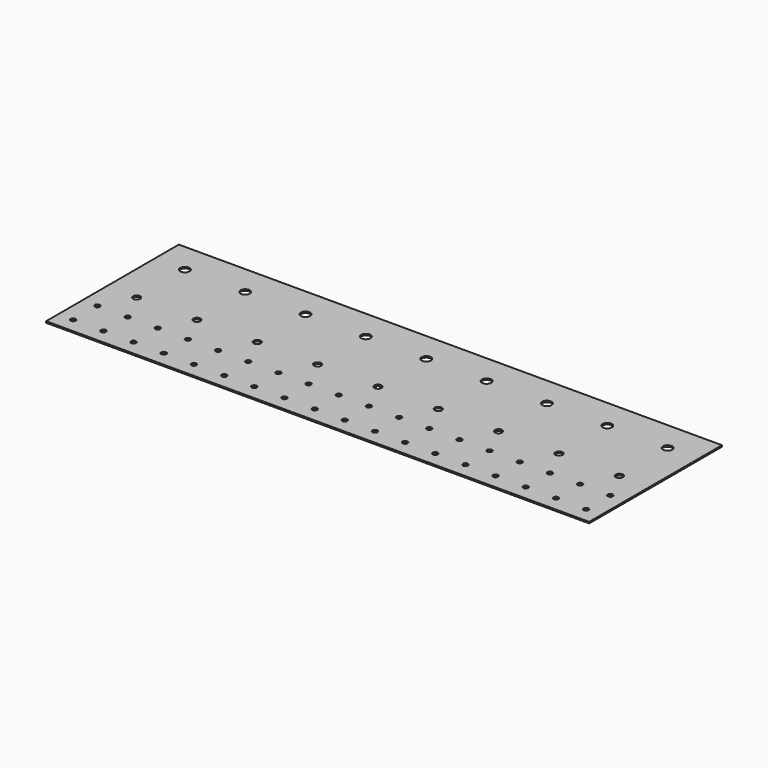
from build123d import *

# Parameters (mm, degrees)
F0_W     = 378
F0_H     = 115.5
F0_R     = 1.75
F0_R_2   = 2.5
F0_R_3   = 3.25
F1_DEPTH = 1


with BuildPart() as f1:
    # F0 (on Top) → F1 (new body)
    with BuildSketch(Plane.XY):
        with Locations((189, 57.75)):
            Rectangle(F0_W, F0_H)
        with Locations((10.5, 10.5)):
            Circle(F0_R, mode=Mode.SUBTRACT)
        with Locations((31.5, 10.5)):
            Circle(F0_R, mode=Mode.SUBTRACT)
        with Locations((52.5, 10.5)):
            Circle(F0_R, mode=Mode.SUBTRACT)
        with Locations((73.5, 10.5)):
            Circle(F0_R, mode=Mode.SUBTRACT)
        with Locations((94.5, 10.5)):
            Circle(F0_R, mode=Mode.SUBTRACT)
        with Locations((115.5, 10.5)):
            Circle(F0_R, mode=Mode.SUBTRACT)
        with Locations((136.5, 10.5)):
            Circle(F0_R, mode=Mode.SUBTRACT)
        with Locations((157.5, 10.5)):
            Circle(F0_R, mode=Mode.SUBTRACT)
        with Locations((178.5, 10.5)):
            Circle(F0_R, mode=Mode.SUBTRACT)
        with Locations((10.5, 31.5)):
            Circle(F0_R, mode=Mode.SUBTRACT)
        with Locations((31.5, 31.5)):
            Circle(F0_R, mode=Mode.SUBTRACT)
        with Locations((52.5, 31.5)):
            Circle(F0_R, mode=Mode.SUBTRACT)
        with Locations((73.5, 31.5)):
            Circle(F0_R, mode=Mode.SUBTRACT)
        with Locations((21, 52.5)):
            Circle(F0_R_2, mode=Mode.SUBTRACT)
        with Locations((63, 52.5)):
            Circle(F0_R_2, mode=Mode.SUBTRACT)
        with Locations((94.5, 31.5)):
            Circle(F0_R, mode=Mode.SUBTRACT)
        with Locations((115.5, 31.5)):
            Circle(F0_R, mode=Mode.SUBTRACT)
        with Locations((136.5, 31.5)):
            Circle(F0_R, mode=Mode.SUBTRACT)
        with Locations((157.5, 31.5)):
            Circle(F0_R, mode=Mode.SUBTRACT)
        with Locations((178.5, 31.5)):
            Circle(F0_R, mode=Mode.SUBTRACT)
        with Locations((105, 52.5)):
            Circle(F0_R_2, mode=Mode.SUBTRACT)
        with Locations((147, 52.5)):
            Circle(F0_R_2, mode=Mode.SUBTRACT)
        with Locations((199.5, 10.5)):
            Circle(F0_R, mode=Mode.SUBTRACT)
        with Locations((220.5, 10.5)):
            Circle(F0_R, mode=Mode.SUBTRACT)
        with Locations((241.5, 10.5)):
            Circle(F0_R, mode=Mode.SUBTRACT)
        with Locations((262.5, 10.5)):
            Circle(F0_R, mode=Mode.SUBTRACT)
        with Locations((283.5, 10.5)):
            Circle(F0_R, mode=Mode.SUBTRACT)
        with Locations((304.5, 10.5)):
            Circle(F0_R, mode=Mode.SUBTRACT)
        with Locations((325.5, 10.5)):
            Circle(F0_R, mode=Mode.SUBTRACT)
        with Locations((346.5, 10.5)):
            Circle(F0_R, mode=Mode.SUBTRACT)
        with Locations((367.5, 10.5)):
            Circle(F0_R, mode=Mode.SUBTRACT)
        with Locations((199.5, 31.5)):
            Circle(F0_R, mode=Mode.SUBTRACT)
        with Locations((220.5, 31.5)):
            Circle(F0_R, mode=Mode.SUBTRACT)
        with Locations((241.5, 31.5)):
            Circle(F0_R, mode=Mode.SUBTRACT)
        with Locations((262.5, 31.5)):
            Circle(F0_R, mode=Mode.SUBTRACT)
        with Locations((189, 52.5)):
            Circle(F0_R_2, mode=Mode.SUBTRACT)
        with Locations((231, 52.5)):
            Circle(F0_R_2, mode=Mode.SUBTRACT)
        with Locations((273, 52.5)):
            Circle(F0_R_2, mode=Mode.SUBTRACT)
        with Locations((283.5, 31.5)):
            Circle(F0_R, mode=Mode.SUBTRACT)
        with Locations((304.5, 31.5)):
            Circle(F0_R, mode=Mode.SUBTRACT)
        with Locations((325.5, 31.5)):
            Circle(F0_R, mode=Mode.SUBTRACT)
        with Locations((346.5, 31.5)):
            Circle(F0_R, mode=Mode.SUBTRACT)
        with Locations((367.5, 31.5)):
            Circle(F0_R, mode=Mode.SUBTRACT)
        with Locations((315, 52.5)):
            Circle(F0_R_2, mode=Mode.SUBTRACT)
        with Locations((357, 52.5)):
            Circle(F0_R_2, mode=Mode.SUBTRACT)
        with Locations((21, 94.5)):
            Circle(F0_R_3, mode=Mode.SUBTRACT)
        with Locations((63, 94.5)):
            Circle(F0_R_3, mode=Mode.SUBTRACT)
        with Locations((105, 94.5)):
            Circle(F0_R_3, mode=Mode.SUBTRACT)
        with Locations((147, 94.5)):
            Circle(F0_R_3, mode=Mode.SUBTRACT)
        with Locations((189, 94.5)):
            Circle(F0_R_3, mode=Mode.SUBTRACT)
        with Locations((231, 94.5)):
            Circle(F0_R_3, mode=Mode.SUBTRACT)
        with Locations((273, 94.5)):
            Circle(F0_R_3, mode=Mode.SUBTRACT)
        with Locations((315, 94.5)):
            Circle(F0_R_3, mode=Mode.SUBTRACT)
        with Locations((357, 94.5)):
            Circle(F0_R_3, mode=Mode.SUBTRACT)
    extrude(amount=F1_DEPTH)


solid = f1.part
